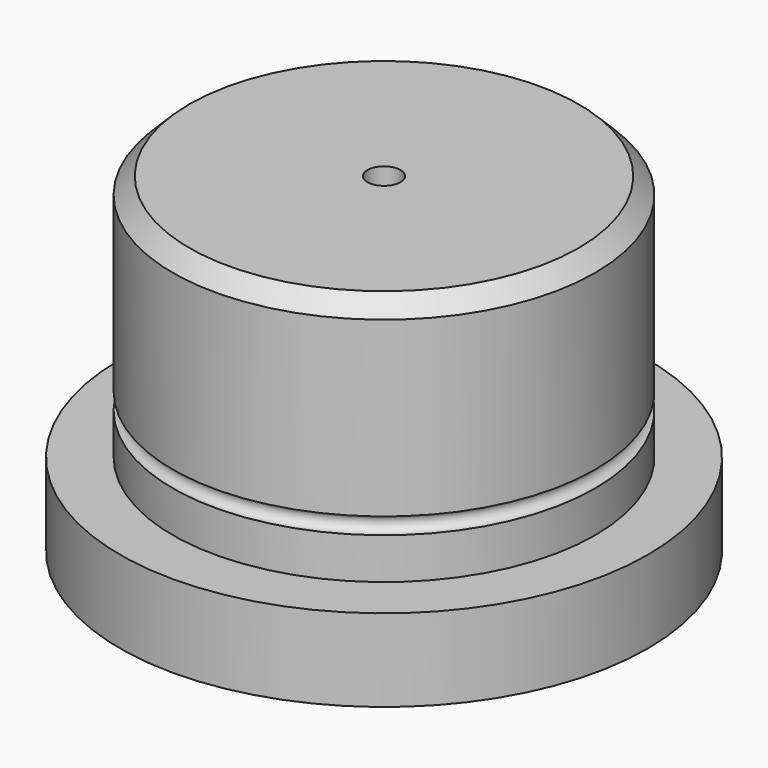
from build123d import *

# Parameters (mm, degrees)
F2_SIZE = 1
F3_SIZE = 1


with BuildPart() as f1:
    # F0 (on Front) → F1 (revolve)
    with BuildSketch(Plane.XZ):
        with BuildLine():
            Line((12.8, 0), (1, 0))
            Line((1, 0), (1, -5))
            Line((1, -5), (5, -10))
            Line((5, -10), (5, -16.5))
            ThreePointArc((5, -16.5), (5.5, -17), (5, -17.5))
            Line((5, -17.5), (5, -20))
            Line((5, -20), (16, -20))
            Line((16, -20), (16, -15))
            Line((16, -15), (12.8, -15))
            Line((12.8, -15), (12.8, -12.5))
            ThreePointArc((12.8, -12.5), (12.3, -12), (12.8, -11.5))
            Line((12.8, -11.5), (12.8, 0))
        make_face()
    revolve(axis=Axis((0, 0, -16.444752), (0, 0, -1)))

    # F2
    f2_edges = [f1.edges().sort_by_distance(p)[0] for p in [
        (-12.8, 0, 0),
    ]]
    chamfer(f2_edges, length=F2_SIZE)

    # F3
    f3_edges = [f1.edges().sort_by_distance(p)[0] for p in [
        (-5, 0, -20),
    ]]
    chamfer(f3_edges, length=F3_SIZE)


solid = f1.part
